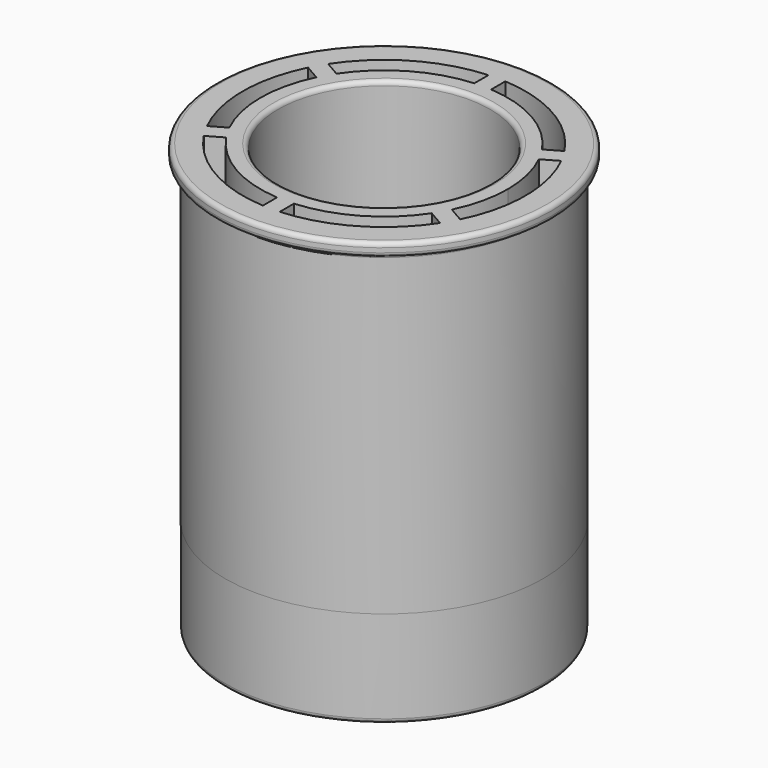
from build123d import *

# Parameters (mm, degrees)
F0_R      = 24
F1_DEPTH  = 75
F0_R_2    = 36
F2_DEPTH  = 75
F3_DEPTH  = 5
F0_R_3    = 22.9754630811
F4_DEPTH  = 3
F8_COUNT  = 6
F9_R      = 38.0255174111
F9_R_2    = 36
F10_DEPTH = 3
F11_R     = 1


with BuildPart() as f1:
    # F0 (on Top) → F1 (new body)
    with BuildSketch(Plane.XY):
        with BuildLine():
            ThreePointArc((-1.9387283501, 27.9328002961), (-19.101251349, -20.4729625824), (28, 0))
            ThreePointArc((28, 0), (20.4505375655, 19.1252585155), (1.8731776226, 27.9372726943))
            ThreePointArc((1.8731776226, 27.9372726943), (-0.0328515609, 27.9999807281), (-1.9387283501, 27.9328002961))
        make_face()
        Circle(F0_R, mode=Mode.SUBTRACT)
    extrude(amount=F1_DEPTH)



with BuildPart() as f1b:
    # F0 (on Top) → F1, piece 2 (new body)
    with BuildSketch(Plane.XY):
        Circle(F0_R_2)
        with BuildLine():
            ThreePointArc((-1.9387283501, 31.9412168269), (-0.0328336545, 31.9999831555), (1.8731776226, 31.9451280416))
            ThreePointArc((1.8731776226, 31.9451280416), (23.2802672227, 21.9551624462), (32, 0))
            ThreePointArc((32, 0), (-21.9312641313, -23.3027821), (-1.9387283501, 31.9412168269))
        make_face(mode=Mode.SUBTRACT)
    extrude(amount=F1_DEPTH)


with BuildPart() as f1_1:
    add(f1.part)

    add(f1b.part)  # F2 merges F1b
    # F0 (on Top) → F2 (join)
    with BuildSketch(Plane.XY):
        with BuildLine():
            ThreePointArc((-1.9387283501, 27.9328002961), (-0.0328515609, 27.9999807281), (1.8731776226, 27.9372726943))
            Line((1.8731776226, 27.9372726943), (1.8731776226, 31.9451280416))
            ThreePointArc((1.8731776226, 31.9451280416), (-0.0328336545, 31.9999831555), (-1.9387283501, 31.9412168269))
            Line((-1.9387283501, 31.9412168269), (-1.9387283501, 27.9328002961))
        make_face()
    extrude(amount=F2_DEPTH)

    # F0 (on Top) → F3 (join)
    with BuildSketch(Plane.XY):
        with BuildLine():
            ThreePointArc((1.8731776226, 27.9372726943), (20.4505375655, 19.1252585155), (28, 0))
            ThreePointArc((28, 0), (-19.101251349, -20.4729625824), (-1.9387283501, 27.9328002961))
            Line((-1.9387283501, 27.9328002961), (-1.9387283501, 31.9412168269))
            ThreePointArc((-1.9387283501, 31.9412168269), (-21.9312641313, -23.3027821), (32, 0))
            ThreePointArc((32, 0), (23.2802672227, 21.9551624462), (1.8731776226, 31.9451280416))
            Line((1.8731776226, 31.9451280416), (1.8731776226, 27.9372726943))
        make_face()
    extrude(amount=F3_DEPTH)

    # F0 (on Top) → F4 (join)
    with BuildSketch(Plane.XY):
        Circle(F0_R)
        Circle(F0_R_3, mode=Mode.SUBTRACT)
    extrude(amount=F4_DEPTH)

    # F5 (on Right) → F7 (revolve)
    with BuildSketch(Plane.YZ):
        Polygon((35.9341837466, 0), (22.9157321155, 0), (35.9341837466, -25.0122398138), align=None)
    revolve(axis=Axis((0, 0, -19.2990265787), (0, 0, -1)))

    # F8: F1 ×6 about axis
    f8_axis = Axis((0, 0, 45.2430993319), (0, 0, 1))


with BuildPart() as f1_2:
    add(f1_1.part)
    for i in range(1, F8_COUNT):
        add(f1_1.part.rotate(f8_axis, i * 360 / F8_COUNT))

    # F9 (on face) → F10 (join)
    with BuildSketch(Plane.XY.offset(75)):
        Circle(F9_R)
        Circle(F9_R_2, mode=Mode.SUBTRACT)
    extrude(amount=-F10_DEPTH)

    # F11
    f11_edges = [f1_2.edges().sort_by_distance(p)[0] for p in [
        (0, -35.934184, -25.01224),
        (-38.025517, 0, 75),
        (-24, 0, 75),
        (-36, 0, 72),
        (-38.025517, 0, 72),
        (-22.975463, 0, 3),
    ]]
    fillet(f11_edges, radius=F11_R)


solid = f1_2.part
